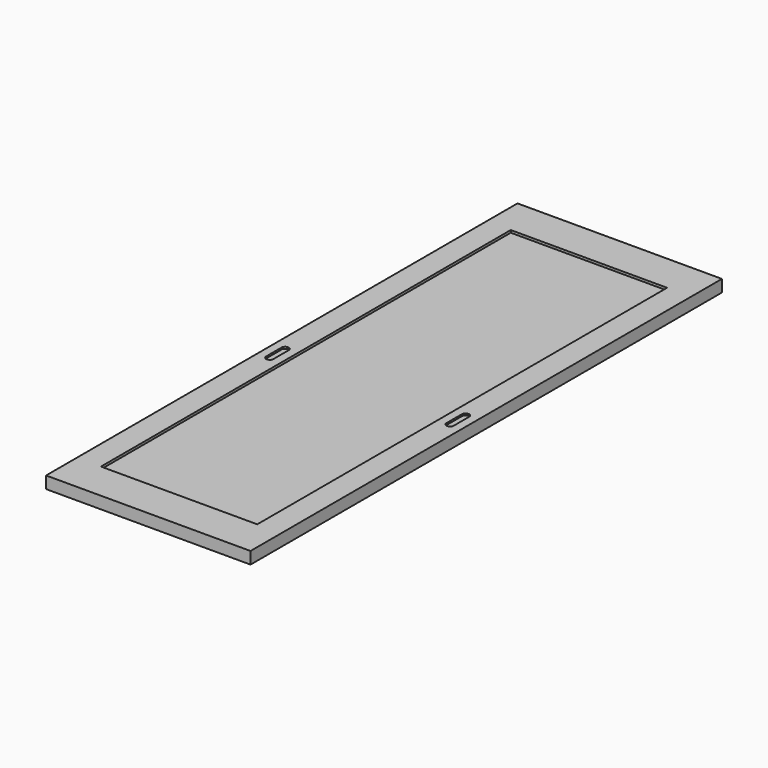
from build123d import *

# Parameters (mm, degrees)
F0_W     = 850
F0_H     = 2450
F0_W_2   = 650
F0_H_2   = 2130
F1_DEPTH = 50
F2_W     = 650
F2_H     = 30
F3_DEPTH = 2130
F5_DEPTH = 7.5
F7_DEPTH = 7.5


with BuildPart() as f1:
    # F0 (on Top) → F1 (new body)
    with BuildSketch(Plane.XY):
        with Locations((-425, 1225)):
            Rectangle(F0_W, F0_H)
        with Locations((-425, 1225)):
            Rectangle(F0_W_2, F0_H_2, mode=Mode.SUBTRACT)
    extrude(amount=F1_DEPTH)

    # F4 (on face) → F5 (cut)
    with BuildSketch(Plane.XY.offset(50)):
        with BuildLine():
            ThreePointArc((-785, 1180), (-800, 1195), (-815, 1180))
            Line((-815, 1180), (-815, 1100))
            ThreePointArc((-815, 1100), (-800, 1085), (-785, 1100))
            Line((-785, 1100), (-785, 1180))
        make_face()
        with BuildLine():
            Line((-65, 1180), (-65, 1100))
            ThreePointArc((-65, 1100), (-50, 1085), (-35, 1100))
            Line((-35, 1100), (-35, 1180))
            ThreePointArc((-35, 1180), (-50, 1195), (-65, 1180))
        make_face()
    extrude(amount=-F5_DEPTH, mode=Mode.SUBTRACT)

    # F6 (on face) → F7 (cut)
    with BuildSketch(Plane(origin=(0, 0, 0), x_dir=(1, 0, 0), z_dir=(0, 0, -1))):
        with BuildLine():
            ThreePointArc((-70, -1180), (-50, -1200), (-30, -1180))
            Line((-30, -1180), (-30, -1100))
            ThreePointArc((-30, -1100), (-50, -1080), (-70, -1100))
            Line((-70, -1100), (-70, -1180))
        make_face()
        with BuildLine():
            ThreePointArc((-820, -1180), (-800, -1200), (-780, -1180))
            Line((-780, -1180), (-780, -1100))
            ThreePointArc((-780, -1100), (-800, -1080), (-820, -1100))
            Line((-820, -1100), (-820, -1180))
        make_face()
    extrude(amount=-F7_DEPTH, mode=Mode.SUBTRACT)


with BuildPart() as f3:
    # F2 (on face) → F3 (new body)
    with BuildSketch(Plane(origin=(0, 160, 0), x_dir=(-1, 0, 0), z_dir=(0, 1, 0))):
        with Locations((425, 25)):
            Rectangle(F2_W, F2_H)
    extrude(amount=F3_DEPTH)


solid = Compound([f1.part, f3.part])
